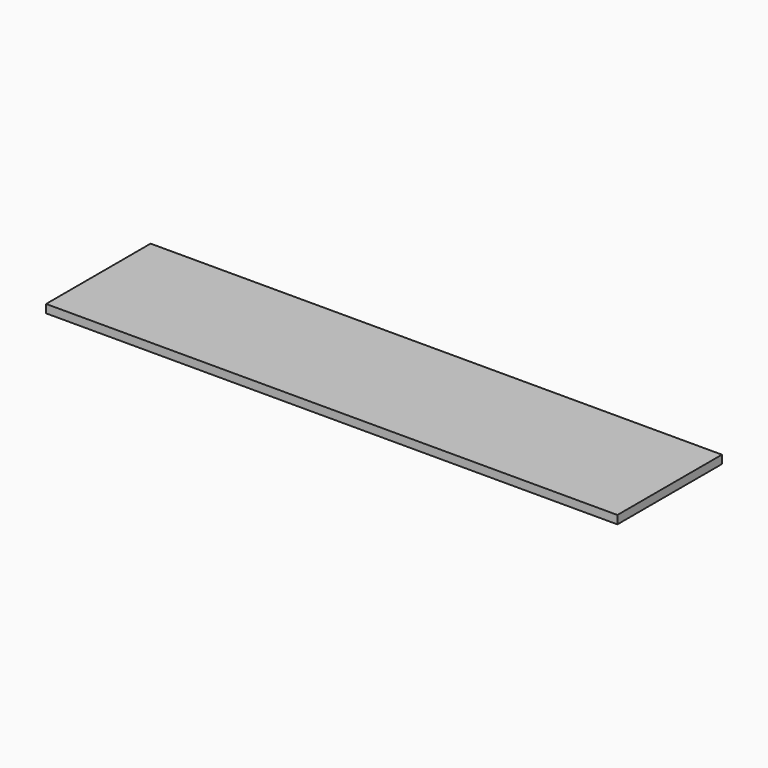
from build123d import *

# Parameters (mm, degrees)
SKETCH_W  = 437.3
SKETCH_H  = 100
PAD_DEPTH = 6.35


with BuildPart() as part:
    # Sketch → Pad (new body)
    with BuildSketch(Plane.XY):
        with Locations((218.65, 50)):
            Rectangle(SKETCH_W, SKETCH_H)
    extrude(amount=PAD_DEPTH)


solid = part.part
